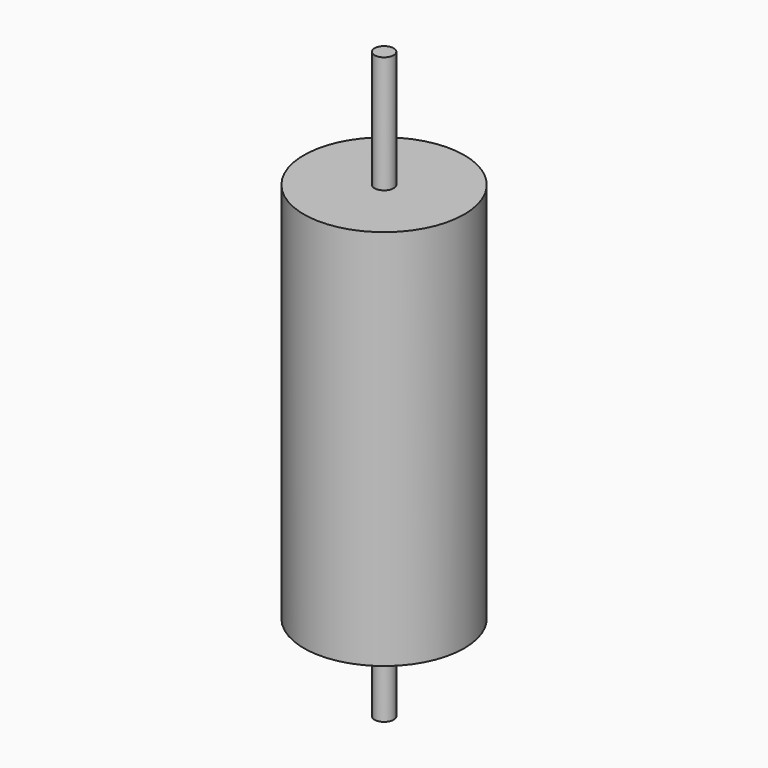
from build123d import *

# Parameters (mm, degrees)
F0_R     = 4.2
F1_DEPTH = 20
F2_R     = 0.5
F3_DEPTH = 4.5
F4_R     = 0.5
F5_DEPTH = 30.6324


with BuildPart() as f1:
    # F0 (on Top) → F1 (new body)
    with BuildSketch(Plane.XY):
        Circle(F0_R)
    extrude(amount=F1_DEPTH)

    # F2 (on face) → F3 (join)
    with BuildSketch(Plane(origin=(0, 0, 0), x_dir=(1, 0, 0), z_dir=(0, 0, -1))):
        Circle(F2_R)
    extrude(amount=F3_DEPTH)

    # F4 (on face) → F5 (join)
    with BuildSketch(Plane(origin=(0, 0, -4.5), x_dir=(1, 0, 0), z_dir=(0, 0, -1))):
        Circle(F4_R)
    extrude(amount=-F5_DEPTH)


solid = f1.part
